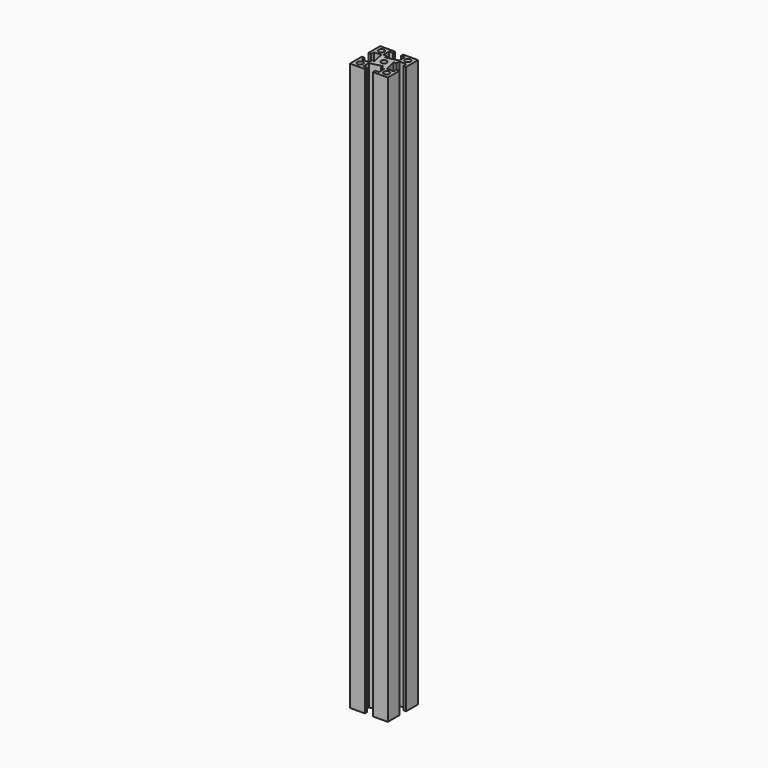
from build123d import *

# Parameters (mm, degrees)
F0_R     = 1.5
F1_DEPTH = 300


with BuildPart() as f1:
    # F0 (on Top) → F1 (new body)
    with BuildSketch(Plane.XY):
        Polygon((-2.129269, 10.120657), (-9.979269, 10.120657), (-9.979269, 2.270657), (-8.479269, 2.270657), (-8.479269, 4.270657), (-4.779269, 4.270657), (-3.279269, -2.029343), (-4.779269, -2.029343), (-4.779269, -4.029343), (-8.479269, -4.029343), (-8.479269, -2.029343), (-9.979269, -2.029343), (-9.979269, -9.879343), (-2.129269, -9.879343), (-2.129269, -8.379343), (-4.129269, -8.379343), (-4.129269, -4.679343), (2.170731, -3.179343), (2.170731, -4.679343), (4.170731, -4.679343), (4.170731, -8.379343), (2.170731, -8.379343), (2.170731, -9.879343), (10.020731, -9.879343), (10.020731, -2.029343), (8.520731, -2.029343), (8.520731, -4.029343), (4.820731, -4.029343), (3.320731, 2.270657), (4.820731, 2.270657), (4.820731, 4.270657), (8.520731, 4.270657), (8.520731, 2.270657), (10.020731, 2.270657), (10.020731, 10.120657), (2.170731, 10.120657), (2.170731, 8.620657), (4.170731, 8.620657), (4.170731, 4.920657), (-2.129269, 3.420657), (-2.129269, 4.920657), (-4.129269, 4.920657), (-4.129269, 8.620657), (-2.129269, 8.620657), align=None)
        with Locations((-6.979269, -6.879343)):
            Circle(F0_R, mode=Mode.SUBTRACT)
        with Locations((7.020731, -6.879343)):
            Circle(F0_R, mode=Mode.SUBTRACT)
        with Locations((0.020731, 0.120657)):
            Circle(F0_R, mode=Mode.SUBTRACT)
        with Locations((-6.979269, 7.120657)):
            Circle(F0_R, mode=Mode.SUBTRACT)
        with Locations((7.020731, 7.120657)):
            Circle(F0_R, mode=Mode.SUBTRACT)
    extrude(amount=F1_DEPTH)


solid = f1.part
